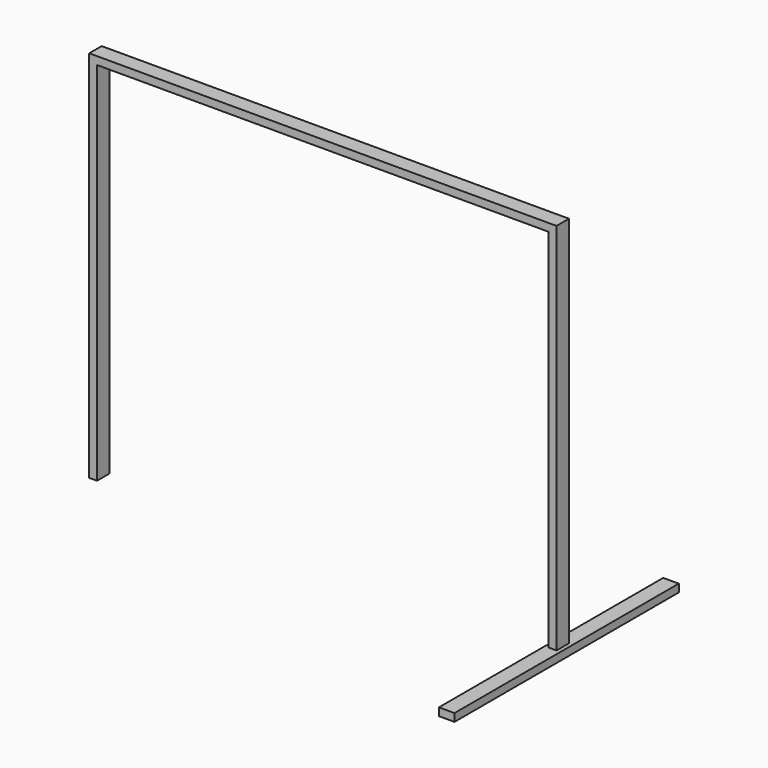
from build123d import *

# Parameters (mm, degrees)
F0_W     = 50.8
F0_H     = 50.8
F0_H_2   = 2387.6
F0_W_2   = 2946.4
F1_DEPTH = 101.6
F3_W     = 1828.8
F3_H     = 50.8
F4_DEPTH = 101.6


with BuildPart() as f1:
    # F0 (on Front) → F1 (new body)
    with BuildSketch(Plane.XZ):
        with Locations((-24.1017394423, 2969.5369873405)):
            Rectangle(F0_W, F0_H)
        with Locations((-24.1017394423, 1750.3369873405)):
            Rectangle(F0_W, F0_H_2)
        with Locations((1474.4982605577, 2969.5369873405)):
            Rectangle(F0_W_2, F0_H)
        with Locations((2973.0982605577, 2969.5369873405)):
            Rectangle(F0_W, F0_H)
        with Locations((2973.0982605577, 1750.3369873405)):
            Rectangle(F0_W, F0_H_2)
    extrude(amount=F1_DEPTH)


with BuildPart() as f4:
    # F3 (on offset) → F4 (new body)
    with BuildSketch(Plane.YZ.offset(3023.8982605577)):
        with Locations((-50.8, 531.1369873405)):
            Rectangle(F3_W, F3_H)
    extrude(amount=-F4_DEPTH)


solid = Compound([f1.part, f4.part])
